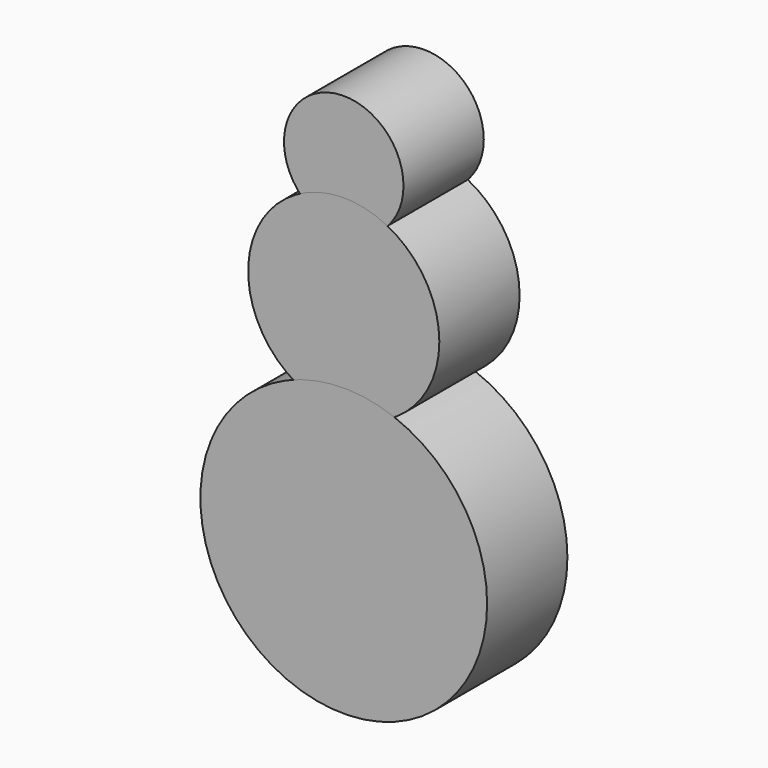
from build123d import *

# Parameters (mm, degrees)
F2_R     = 3.175
F3_DEPTH = 5.334
F1_R     = 5.08
F0_R     = 7.62


with BuildPart() as f3:
    # F2 (on Front) → F3 (new body)
    with BuildSketch(Plane.XZ):
        with Locations((0, 18.1116494595)):
            Circle(F2_R)
    extrude(amount=F3_DEPTH)


with BuildPart() as f3b:
    # F1 (on Front) → F3, piece 2 (new body)
    with BuildSketch(Plane.XZ):
        with Locations((0, 11.4388726652)):
            Circle(F1_R)
    extrude(amount=F3_DEPTH)


with BuildPart() as f3c:
    # F0 (on Front) → F3, piece 3 (new body)
    with BuildSketch(Plane.XZ):
        Circle(F0_R)
    extrude(amount=F3_DEPTH)


solid = Compound([f3.part, f3b.part, f3c.part])
